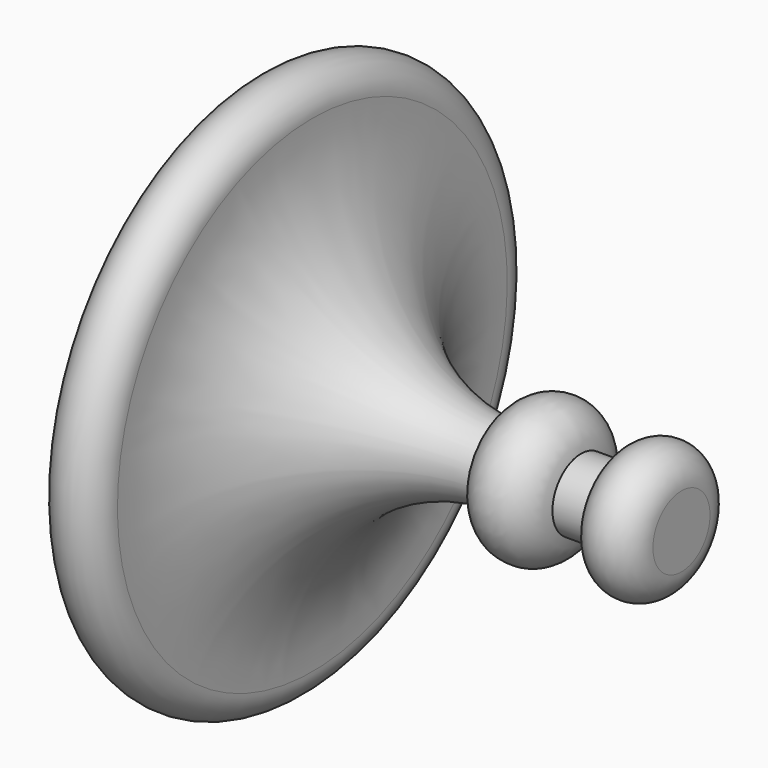
from build123d import *


with BuildPart() as f1:
    # F0 (on Front) → F1 (revolve)
    with BuildSketch(Plane.XZ):
        with BuildLine():
            Line((-125.029312, 87.148277), (-125.029312, 0))
            Line((-125.029312, 0), (27.370688, 0))
            Line((27.370688, 0), (27.370688, 12.7))
            ThreePointArc((27.370688, 12.7), (16.160477, 23.910211), (4.950266, 12.7))
            Line((4.950266, 12.7), (-8.389435, 12.7))
            ThreePointArc((-8.389435, 12.7), (-22.121487, 25.216773), (-35.853539, 12.7))
            ThreePointArc((-35.853539, 12.7), (-85.269927, 35.579841), (-104.008624, 86.710339))
            ThreePointArc((-104.008624, 86.710339), (-114.29539, 97.660902), (-125.029312, 87.148277))
        make_face()
    revolve(axis=Axis((-48.829312, 0, 0), (1, 0, 0)))


solid = f1.part
